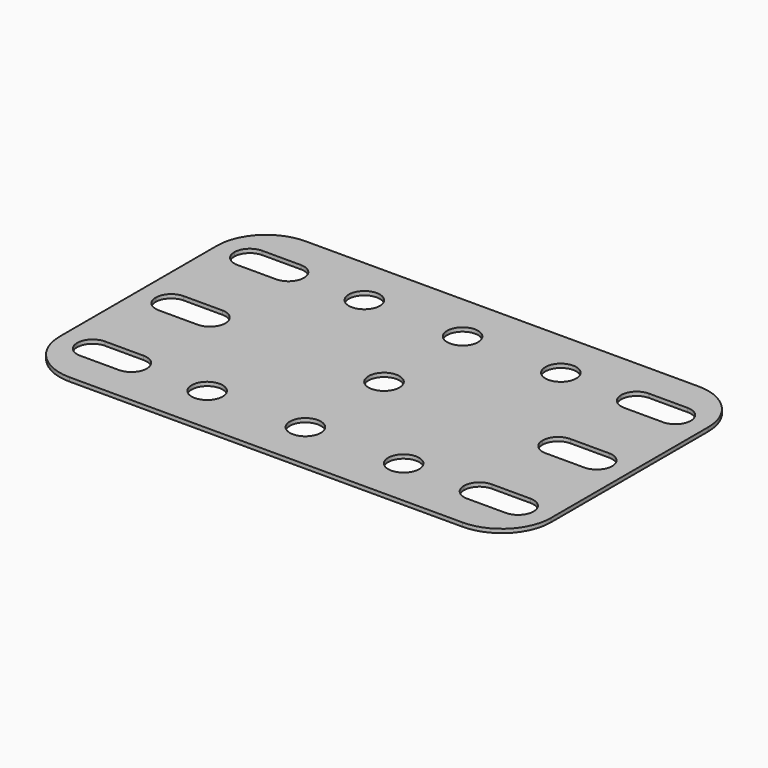
from build123d import *

# Parameters (mm, degrees)
F0_R     = 2
F1_DEPTH = 0.5


with BuildPart() as f1:
    # F0 (on Top) → F1 (new body)
    with BuildSketch(Plane.XY):
        with BuildLine():
            ThreePointArc((31.75, 12.7), (29.890128, 17.190128), (25.4, 19.05))
            Line((25.4, 19.05), (-25.4, 19.05))
            ThreePointArc((-25.4, 19.05), (-29.890128, 17.190128), (-31.75, 12.7))
            Line((-31.75, 12.7), (-31.75, -12.7))
            ThreePointArc((-31.75, -12.7), (-29.890128, -17.190128), (-25.4, -19.05))
            Line((-25.4, -19.05), (25.4, -19.05))
            ThreePointArc((25.4, -19.05), (29.890128, -17.190128), (31.75, -12.7))
            Line((31.75, -12.7), (31.75, 12.7))
        make_face()
        with BuildLine():
            ThreePointArc((-22.5, -10.7), (-21.085786, -11.285786), (-20.5, -12.7))
            ThreePointArc((-20.5, -12.7), (-21.085786, -14.114214), (-22.5, -14.7))
            Line((-22.5, -14.7), (-27.5, -14.7))
            ThreePointArc((-27.5, -14.7), (-28.914214, -14.114214), (-29.5, -12.7))
            ThreePointArc((-29.5, -12.7), (-28.914214, -11.285786), (-27.5, -10.7))
            Line((-27.5, -10.7), (-22.5, -10.7))
        make_face(mode=Mode.SUBTRACT)
        with Locations((-12.7, -12.7)):
            Circle(F0_R, mode=Mode.SUBTRACT)
        with Locations((0, -12.7)):
            Circle(F0_R, mode=Mode.SUBTRACT)
        with Locations((12.7, -12.7)):
            Circle(F0_R, mode=Mode.SUBTRACT)
        with BuildLine():
            ThreePointArc((22.5, -14.7), (21.085786, -14.114214), (20.5, -12.7))
            ThreePointArc((20.5, -12.7), (21.085786, -11.285786), (22.5, -10.7))
            Line((22.5, -10.7), (27.5, -10.7))
            ThreePointArc((27.5, -10.7), (28.914214, -11.285786), (29.5, -12.7))
            ThreePointArc((29.5, -12.7), (28.914214, -14.114214), (27.5, -14.7))
            Line((27.5, -14.7), (22.5, -14.7))
        make_face(mode=Mode.SUBTRACT)
        with BuildLine():
            ThreePointArc((29.5, 0), (28.914214, -1.414214), (27.5, -2))
            Line((27.5, -2), (22.5, -2))
            ThreePointArc((22.5, -2), (21.085786, -1.414214), (20.5, 0))
            ThreePointArc((20.5, 0), (21.085786, 1.414214), (22.5, 2))
            Line((22.5, 2), (27.5, 2))
            ThreePointArc((27.5, 2), (28.914214, 1.414214), (29.5, 0))
        make_face(mode=Mode.SUBTRACT)
        with BuildLine():
            ThreePointArc((-27.5, -2), (-28.914214, -1.414214), (-29.5, 0))
            ThreePointArc((-29.5, 0), (-28.914214, 1.414214), (-27.5, 2))
            Line((-27.5, 2), (-22.5, 2))
            ThreePointArc((-22.5, 2), (-21.085786, 1.414214), (-20.5, 0))
            ThreePointArc((-20.5, 0), (-21.085786, -1.414214), (-22.5, -2))
            Line((-22.5, -2), (-27.5, -2))
        make_face(mode=Mode.SUBTRACT)
        with BuildLine():
            ThreePointArc((-22.5, 14.7), (-21.085786, 14.114214), (-20.5, 12.7))
            ThreePointArc((-20.5, 12.7), (-21.085786, 11.285786), (-22.5, 10.7))
            Line((-22.5, 10.7), (-27.5, 10.7))
            ThreePointArc((-27.5, 10.7), (-28.914214, 11.285786), (-29.5, 12.7))
            ThreePointArc((-29.5, 12.7), (-28.914214, 14.114214), (-27.5, 14.7))
            Line((-27.5, 14.7), (-22.5, 14.7))
        make_face(mode=Mode.SUBTRACT)
        with Locations((-12.7, 12.7)):
            Circle(F0_R, mode=Mode.SUBTRACT)
        Circle(F0_R, mode=Mode.SUBTRACT)
        with Locations((0, 12.7)):
            Circle(F0_R, mode=Mode.SUBTRACT)
        with Locations((12.7, 12.7)):
            Circle(F0_R, mode=Mode.SUBTRACT)
        with BuildLine():
            ThreePointArc((29.5, 12.7), (28.914214, 11.285786), (27.5, 10.7))
            Line((27.5, 10.7), (22.5, 10.7))
            ThreePointArc((22.5, 10.7), (21.085786, 11.285786), (20.5, 12.7))
            ThreePointArc((20.5, 12.7), (21.085786, 14.114214), (22.5, 14.7))
            Line((22.5, 14.7), (27.5, 14.7))
            ThreePointArc((27.5, 14.7), (28.914214, 14.114214), (29.5, 12.7))
        make_face(mode=Mode.SUBTRACT)
    extrude(amount=F1_DEPTH)


solid = f1.part
